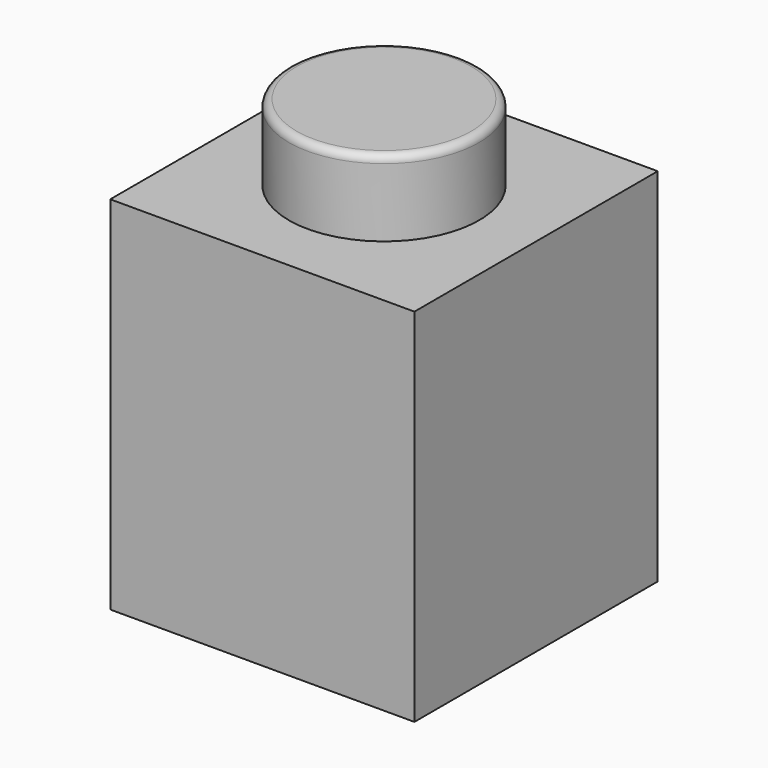
from build123d import *

# Parameters (mm, degrees)
F0_W     = 2.5
F0_H     = 2
F2_DEPTH = 4
F3_R     = 0.2


with BuildPart() as f1:
    # F0 (on Front) → F1 (revolve)
    with BuildSketch(Plane.XZ):
        with Locations((-1.25, 5.75)):
            Rectangle(F0_W, F0_H)
    revolve(axis=Axis((0, 0, 1), (0, 0, -1)))

    # F0 (on Front) → F2 (join, symmetric)
    with BuildSketch(Plane.XZ):
        Polygon((4, -4.75), (4, 4.75), (2.5, 4.75), (0, 4.75), (0, -4.75), align=None)
        Polygon((0, -4.75), (0, 4.75), (-2.5, 4.75), (-4, 4.75), (-4, -4.75), align=None)
    extrude(amount=F2_DEPTH, both=True)

    # F3
    f3_edges = [f1.edges().sort_by_distance(p)[0] for p in [
        (2.5, 0, 6.75),
    ]]
    fillet(f3_edges, radius=F3_R)


solid = f1.part
